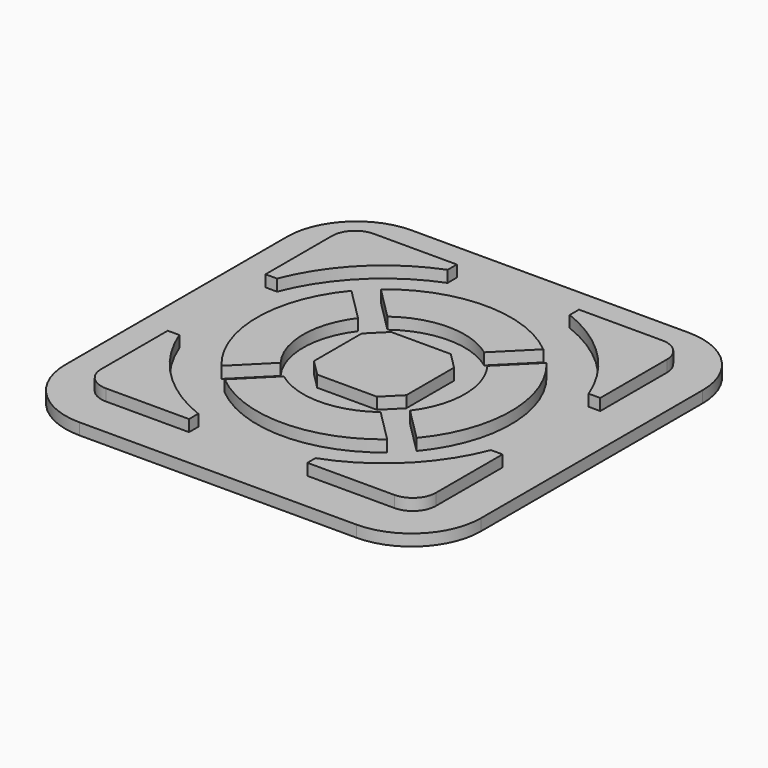
from build123d import *

# Parameters (mm, degrees)
F1_DEPTH = 1
F2_DEPTH = 0.5


with BuildPart() as f1:
    # F0 (on Top) → F1 (new body)
    with BuildSketch(Plane.XY):
        with BuildLine():
            Line((-2.645751, 6.75), (-2.645751, 7.25))
            Line((-2.645751, 7.25), (-6.25, 7.25))
            ThreePointArc((-6.25, 7.25), (-6.957107, 6.957107), (-7.25, 6.25))
            Line((-7.25, 6.25), (-7.25, 2.645751))
            Line((-7.25, 2.645751), (-6.75, 2.645751))
            ThreePointArc((-6.75, 2.645751), (-5.126524, 5.126524), (-2.645751, 6.75))
        make_face()
        with BuildLine():
            ThreePointArc((7.25, 6.25), (6.957107, 6.957107), (6.25, 7.25))
            Line((6.25, 7.25), (2.645751, 7.25))
            Line((2.645751, 7.25), (2.645751, 6.75))
            ThreePointArc((2.645751, 6.75), (5.126524, 5.126524), (6.75, 2.645751))
            Line((6.75, 2.645751), (7.25, 2.645751))
            Line((7.25, 2.645751), (7.25, 6.25))
        make_face()
        with BuildLine():
            Line((2.48227, -7.25), (6.25, -7.25))
            ThreePointArc((6.25, -7.25), (6.957107, -6.957107), (7.25, -6.25))
            Line((7.25, -6.25), (7.25, -2.645751))
            Line((7.25, -2.645751), (6.75, -2.645751))
            ThreePointArc((6.75, -2.645751), (5.064358, -5.187945), (2.48227, -6.811816))
            Line((2.48227, -6.811816), (2.48227, -7.25))
        make_face()
        with BuildLine():
            ThreePointArc((-2.645751, -6.75), (-5.126524, -5.126524), (-6.75, -2.645751))
            Line((-6.75, -2.645751), (-7.25, -2.645751))
            Line((-7.25, -2.645751), (-7.25, -6.25))
            ThreePointArc((-7.25, -6.25), (-6.957107, -6.957107), (-6.25, -7.25))
            Line((-6.25, -7.25), (-2.645751, -7.25))
            Line((-2.645751, -7.25), (-2.645751, -6.75))
        make_face()
        with BuildLine():
            ThreePointArc((-2.803043, -2.095936), (-3.5, 0), (-2.803043, 2.095936))
            Line((-2.803043, 2.095936), (-4.226537, 3.51943))
            ThreePointArc((-4.226537, 3.51943), (-5.5, 0), (-4.226537, -3.51943))
            Line((-4.226537, -3.51943), (-2.803043, -2.095936))
        make_face()
        with BuildLine():
            Line((-3.51943, 4.226537), (-2.095936, 2.803043))
            ThreePointArc((-2.095936, 2.803043), (0, 3.5), (2.095936, 2.803043))
            Line((2.095936, 2.803043), (3.51943, 4.226537))
            ThreePointArc((3.51943, 4.226537), (0, 5.5), (-3.51943, 4.226537))
        make_face()
        with BuildLine():
            Line((4.226537, 3.51943), (2.803043, 2.095936))
            ThreePointArc((2.803043, 2.095936), (3.5, 0), (2.803043, -2.095936))
            Line((2.803043, -2.095936), (4.226537, -3.51943))
            ThreePointArc((4.226537, -3.51943), (5.5, 0), (4.226537, 3.51943))
        make_face()
        with BuildLine():
            Line((-2.095936, -2.803043), (-3.51943, -4.226537))
            ThreePointArc((-3.51943, -4.226537), (0, -5.5), (3.51943, -4.226537))
            Line((3.51943, -4.226537), (2.095936, -2.803043))
            ThreePointArc((2.095936, -2.803043), (0, -3.5), (-2.095936, -2.803043))
        make_face()
        Polygon((-1.292893, -2), (1.292893, -2), (2, -1.292893), (2, 1.292893), (1.292893, 2), (-1.292893, 2), (-2, 1.292893), (-2, -1.292893), align=None)
    extrude(amount=F1_DEPTH)


with BuildPart() as f2:
    # F0 (on Top) → F2 (new body)
    with BuildSketch(Plane.XY):
        with BuildLine():
            Line((-6, -9), (6, -9))
            ThreePointArc((6, -9), (8.12132, -8.12132), (9, -6))
            Line((9, -6), (9, 6))
            ThreePointArc((9, 6), (8.12132, 8.12132), (6, 9))
            Line((6, 9), (-6, 9))
            ThreePointArc((-6, 9), (-8.12132, 8.12132), (-9, 6))
            Line((-9, 6), (-9, -6))
            ThreePointArc((-9, -6), (-8.12132, -8.12132), (-6, -9))
        make_face()
        with BuildLine():
            Line((-7.25, -2.645751), (-6.75, -2.645751))
            ThreePointArc((-6.75, -2.645751), (-5.126524, -5.126524), (-2.645751, -6.75))
            Line((-2.645751, -6.75), (-2.645751, -7.25))
            Line((-2.645751, -7.25), (-6.25, -7.25))
            ThreePointArc((-6.25, -7.25), (-6.957107, -6.957107), (-7.25, -6.25))
            Line((-7.25, -6.25), (-7.25, -2.645751))
        make_face(mode=Mode.SUBTRACT)
        with BuildLine():
            ThreePointArc((7.25, -6.25), (6.957107, -6.957107), (6.25, -7.25))
            Line((6.25, -7.25), (2.48227, -7.25))
            Line((2.48227, -7.25), (2.48227, -6.811816))
            ThreePointArc((2.48227, -6.811816), (5.064358, -5.187945), (6.75, -2.645751))
            Line((6.75, -2.645751), (7.25, -2.645751))
            Line((7.25, -2.645751), (7.25, -6.25))
        make_face(mode=Mode.SUBTRACT)
        with BuildLine():
            ThreePointArc((3.51943, -4.226537), (0, -5.5), (-3.51943, -4.226537))
            Line((-3.51943, -4.226537), (-2.095936, -2.803043))
            ThreePointArc((-2.095936, -2.803043), (0, -3.5), (2.095936, -2.803043))
            Line((2.095936, -2.803043), (3.51943, -4.226537))
        make_face(mode=Mode.SUBTRACT)
        with BuildLine():
            Line((-4.226537, 3.51943), (-2.803043, 2.095936))
            ThreePointArc((-2.803043, 2.095936), (-3.5, 0), (-2.803043, -2.095936))
            Line((-2.803043, -2.095936), (-4.226537, -3.51943))
            ThreePointArc((-4.226537, -3.51943), (-5.5, 0), (-4.226537, 3.51943))
        make_face(mode=Mode.SUBTRACT)
        with BuildLine():
            Line((-6.25, 7.25), (-2.645751, 7.25))
            Line((-2.645751, 7.25), (-2.645751, 6.75))
            ThreePointArc((-2.645751, 6.75), (-5.126524, 5.126524), (-6.75, 2.645751))
            Line((-6.75, 2.645751), (-7.25, 2.645751))
            Line((-7.25, 2.645751), (-7.25, 6.25))
            ThreePointArc((-7.25, 6.25), (-6.957107, 6.957107), (-6.25, 7.25))
        make_face(mode=Mode.SUBTRACT)
        Polygon((2, -1.292893), (1.292893, -2), (-1.292893, -2), (-2, -1.292893), (-2, 1.292893), (-1.292893, 2), (1.292893, 2), (2, 1.292893), align=None, mode=Mode.SUBTRACT)
        with BuildLine():
            ThreePointArc((2.803043, -2.095936), (3.5, 0), (2.803043, 2.095936))
            Line((2.803043, 2.095936), (4.226537, 3.51943))
            ThreePointArc((4.226537, 3.51943), (5.5, 0), (4.226537, -3.51943))
            Line((4.226537, -3.51943), (2.803043, -2.095936))
        make_face(mode=Mode.SUBTRACT)
        with BuildLine():
            ThreePointArc((2.095936, 2.803043), (0, 3.5), (-2.095936, 2.803043))
            Line((-2.095936, 2.803043), (-3.51943, 4.226537))
            ThreePointArc((-3.51943, 4.226537), (0, 5.5), (3.51943, 4.226537))
            Line((3.51943, 4.226537), (2.095936, 2.803043))
        make_face(mode=Mode.SUBTRACT)
        with BuildLine():
            Line((2.645751, 7.25), (6.25, 7.25))
            ThreePointArc((6.25, 7.25), (6.957107, 6.957107), (7.25, 6.25))
            Line((7.25, 6.25), (7.25, 2.645751))
            Line((7.25, 2.645751), (6.75, 2.645751))
            ThreePointArc((6.75, 2.645751), (5.126524, 5.126524), (2.645751, 6.75))
            Line((2.645751, 6.75), (2.645751, 7.25))
        make_face(mode=Mode.SUBTRACT)
    extrude(amount=F2_DEPTH)


solid = Compound([f1.part, f2.part])
